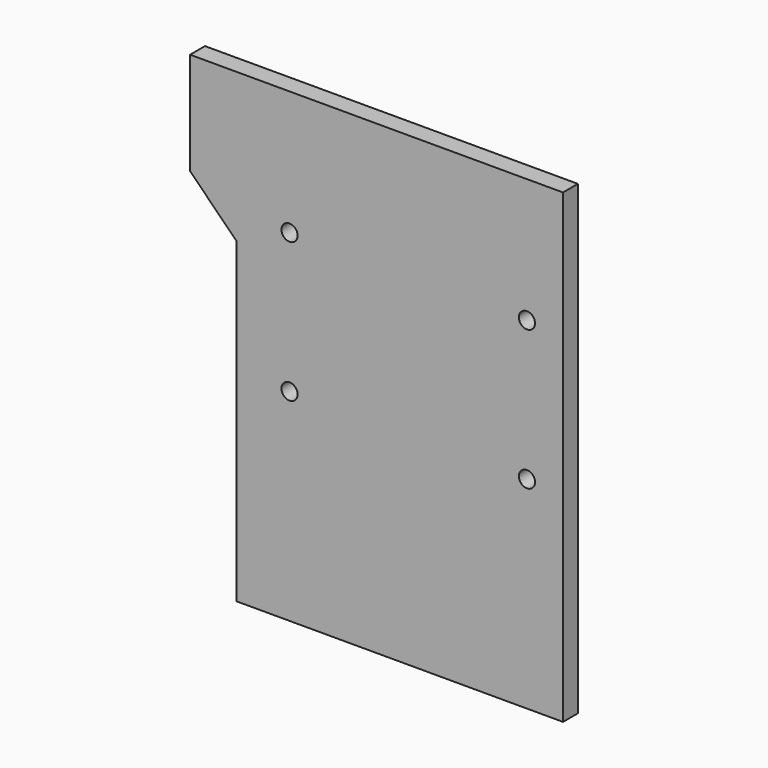
from build123d import *

# Parameters (mm, degrees)
F1_DEPTH = 6
F3_D     = 5.2


with BuildPart() as f1:
    # F0 (on Front) → F1 (new body)
    with BuildSketch(Plane.XZ):
        Polygon((-105, 0), (0, 0), (0, 150), (-120, 150), (-120, 117), (-105, 102), align=None)
    extrude(amount=F1_DEPTH)

    # F3 (through all)
    with Locations(Plane.XZ.offset(6)):
        with Locations((-11.6, 110), (-88, 110), (-88, 65), (-11.6, 65)):
            Hole(F3_D / 2)


solid = f1.part
